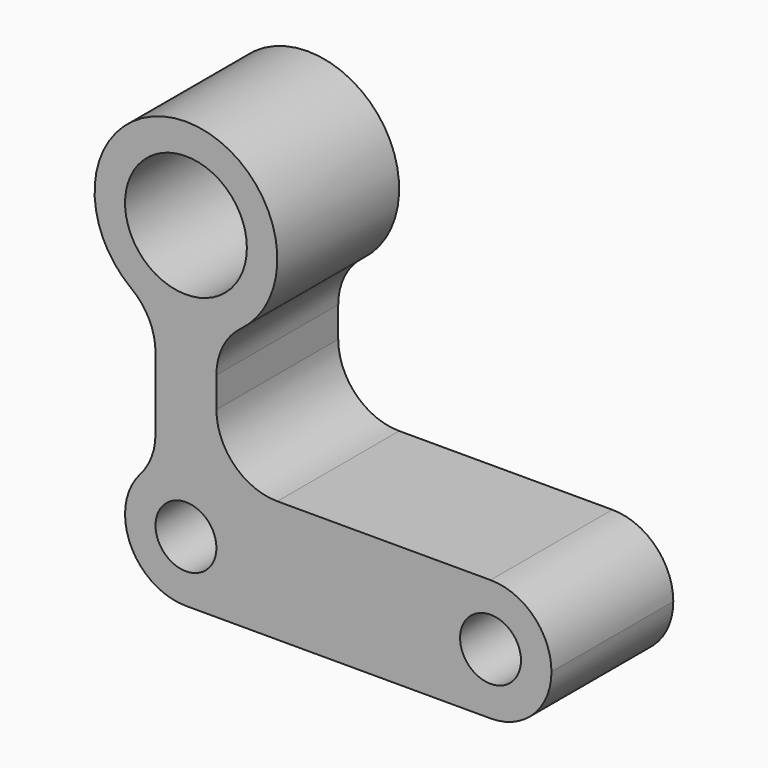
from build123d import *

# Parameters (mm, degrees)
F0_R     = 5
F0_R_2   = 10
F1_DEPTH = 25


with BuildPart() as f1:
    # F0 (on Front) → F1 (new body)
    with BuildSketch(Plane.XZ):
        with BuildLine():
            ThreePointArc((-45.414113, -18.021473), (-42.48518, -25.092541), (-35.414113, -28.021473))
            Line((-35.414113, -28.021473), (14.585887, -28.021473))
            ThreePointArc((14.585887, -28.021473), (21.656955, -25.092541), (24.585887, -18.021473))
            ThreePointArc((24.585887, -18.021473), (21.656955, -10.950406), (14.585887, -8.021473))
            Line((14.585887, -8.021473), (-11.111964, -8.021473))
            Line((-11.111964, -8.021473), (-20.414113, -8.021473))
            ThreePointArc((-20.414113, -8.021473), (-27.48518, -5.092541), (-30.414113, 1.978527))
            Line((-30.414113, 1.978527), (-30.414113, 6.978527))
            ThreePointArc((-30.414113, 6.978527), (-29.358384, 11.450663), (-26.414113, 14.978527))
            ThreePointArc((-26.414113, 14.978527), (-35.414113, 41.978527), (-44.414113, 14.978527))
            ThreePointArc((-44.414113, 14.978527), (-41.469841, 11.450663), (-40.414113, 6.978527))
            Line((-40.414113, 6.978527), (-40.414113, -4.792717))
            ThreePointArc((-40.414113, -4.792717), (-41.059969, -8.328251), (-42.914113, -11.407095))
            ThreePointArc((-42.914113, -11.407095), (-44.768256, -14.48594), (-45.414113, -18.021473))
        make_face()
        with Locations((-35.414113, -18.021473)):
            Circle(F0_R, mode=Mode.SUBTRACT)
        with Locations((14.585887, -18.021473)):
            Circle(F0_R, mode=Mode.SUBTRACT)
        with Locations((-35.414113, 26.978527)):
            Circle(F0_R_2, mode=Mode.SUBTRACT)
    extrude(amount=F1_DEPTH)


solid = f1.part
